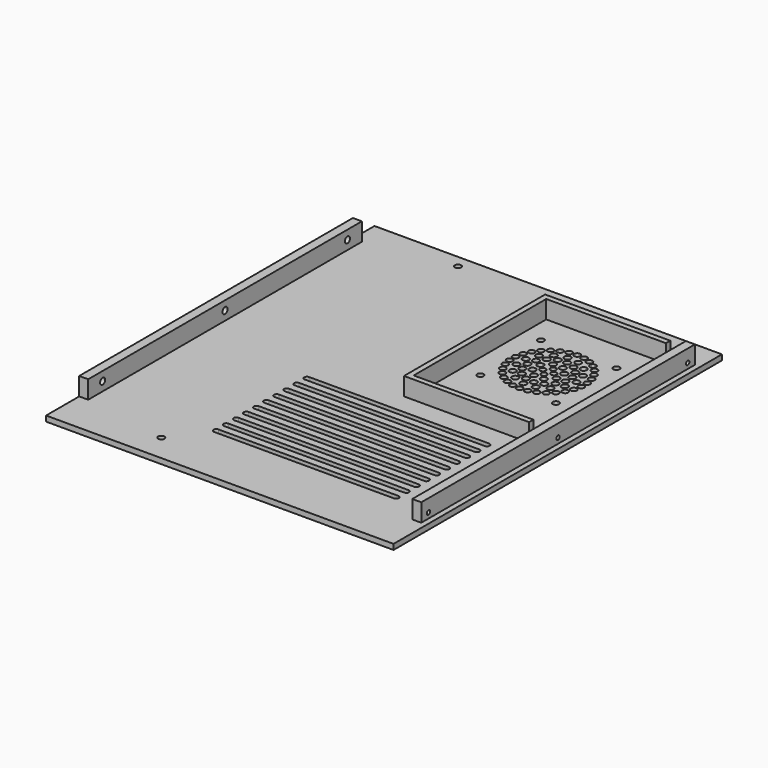
from build123d import *

# Parameters (mm, degrees)
SKETCH_W        = 193
SKETCH_H        = 228
SKETCH_R        = 1.75
PAD_DEPTH       = 3
SKETCH001_W     = 5
SKETCH001_H     = 190
PAD001_DEPTH    = 10
SKETCH002_R     = 1.75
POCKET_DEPTH    = 5
SKETCH003_R     = 1.15
POCKET001_DEPTH = 5
SKETCH005_R     = 1.8
SKETCH005_R_2   = 1.7
SKETCH005_R_3   = 1.75
SKETCH005_R_4   = 1.6
POCKET002_DEPTH = 5


with BuildPart() as part:
    # Sketch → Pad (new body)
    with BuildSketch(Plane.XY):
        with Locations((-20, -4)):
            Rectangle(SKETCH_W, SKETCH_H)
        with Locations((-64.5, 103)):
            Circle(SKETCH_R, mode=Mode.SUBTRACT)
        with Locations((-64.5, -103)):
            Circle(SKETCH_R, mode=Mode.SUBTRACT)
        with BuildLine():
            ThreePointArc((-50, -18.5), (-51.5, -20), (-50, -21.5))
            Line((-50, -21.5), (50, -21.5))
            ThreePointArc((50, -21.5), (51.5, -20), (50, -18.5))
            Line((-50, -18.5), (50, -18.5))
        make_face(mode=Mode.SUBTRACT)
        with BuildLine():
            ThreePointArc((-50, -25.5), (-51.5, -27), (-50, -28.5))
            Line((-50, -28.5), (50, -28.5))
            ThreePointArc((50, -28.5), (51.5, -27), (50, -25.5))
            Line((-50, -25.5), (50, -25.5))
        make_face(mode=Mode.SUBTRACT)
        with BuildLine():
            ThreePointArc((-50, -32.5), (-51.5, -34), (-50, -35.5))
            Line((-50, -35.5), (50, -35.5))
            ThreePointArc((50, -35.5), (51.5, -34), (50, -32.5))
            Line((-50, -32.5), (50, -32.5))
        make_face(mode=Mode.SUBTRACT)
        with BuildLine():
            ThreePointArc((-50, -39.5), (-51.5, -41), (-50, -42.5))
            Line((-50, -42.5), (50, -42.5))
            ThreePointArc((50, -42.5), (51.5, -41), (50, -39.5))
            Line((-50, -39.5), (50, -39.5))
        make_face(mode=Mode.SUBTRACT)
        with BuildLine():
            ThreePointArc((-50, -46.5), (-51.5, -48), (-50, -49.5))
            Line((-50, -49.5), (50, -49.5))
            ThreePointArc((50, -49.5), (51.5, -48), (50, -46.5))
            Line((-50, -46.5), (50, -46.5))
        make_face(mode=Mode.SUBTRACT)
        with BuildLine():
            ThreePointArc((-50, -53.5), (-51.5, -55), (-50, -56.5))
            Line((-50, -56.5), (50, -56.5))
            ThreePointArc((50, -56.5), (51.5, -55), (50, -53.5))
            Line((-50, -53.5), (50, -53.5))
        make_face(mode=Mode.SUBTRACT)
        with BuildLine():
            ThreePointArc((-50, -60.5), (-51.5, -62), (-50, -63.5))
            Line((-50, -63.5), (50, -63.5))
            ThreePointArc((50, -63.5), (51.5, -62), (50, -60.5))
            Line((-50, -60.5), (50, -60.5))
        make_face(mode=Mode.SUBTRACT)
        with BuildLine():
            ThreePointArc((-50, -67.5), (-51.5, -69), (-50, -70.5))
            Line((-50, -70.5), (50, -70.5))
            ThreePointArc((50, -70.5), (51.5, -69), (50, -67.5))
            Line((-50, -67.5), (50, -67.5))
        make_face(mode=Mode.SUBTRACT)
        with BuildLine():
            ThreePointArc((-50, -74.5), (-51.5, -76), (-50, -77.5))
            Line((-50, -77.5), (50, -77.5))
            ThreePointArc((50, -77.5), (51.5, -76), (50, -74.5))
            Line((-50, -74.5), (50, -74.5))
        make_face(mode=Mode.SUBTRACT)
        with BuildLine():
            ThreePointArc((-50, -81.5), (-51.5, -83), (-50, -84.5))
            Line((-50, -84.5), (50, -84.5))
            ThreePointArc((50, -84.5), (51.5, -83), (50, -81.5))
            Line((-50, -81.5), (50, -81.5))
        make_face(mode=Mode.SUBTRACT)
    extrude(amount=PAD_DEPTH)

    # Sketch001 → Pad001 (join)
    with BuildSketch(Plane.XY.offset(3)):
        with Locations((-114, 0)):
            Rectangle(SKETCH001_W, SKETCH001_H)
        with Locations((71, 0)):
            Rectangle(SKETCH001_W, SKETCH001_H)
        Polygon((63, 91), (-6.5, 91), (-6.5, -7), (63, -7), (63, -4), (-3.5, -4), (-3.5, 88), (63, 88), align=None)
    extrude(amount=PAD001_DEPTH)

    # Sketch002 → Pocket (cut)
    with BuildSketch(Plane.YZ.offset(-116.5)):
        with Locations((-85, 8)):
            Circle(SKETCH002_R)
        with Locations((0, 8)):
            Circle(SKETCH002_R)
        with Locations((85, 8)):
            Circle(SKETCH002_R)
    extrude(amount=POCKET_DEPTH, mode=Mode.SUBTRACT)

    # Sketch003 → Pocket001 (cut)
    with BuildSketch(Plane.YZ.offset(73.5)):
        with Locations((-90, 6)):
            Circle(SKETCH003_R)
        with Locations((0, 6)):
            Circle(SKETCH003_R)
        with Locations((90, 6)):
            Circle(SKETCH003_R)
    extrude(amount=-POCKET001_DEPTH, mode=Mode.SUBTRACT)

    # Sketch005 → Pocket002 (cut)
    with BuildSketch(Plane(origin=(40, 60, 0), x_dir=(1, 0, 0), z_dir=(0, 0, 1))):
        with Locations((-13.721043, 5.674388)):
            Circle(SKETCH005_R)
        with Locations((-16.264029, 9.856091)):
            Circle(SKETCH005_R_2)
        with Locations((-15.773102, 1.367326)):
            Circle(SKETCH005_R)
        with Locations((-20.239142, 8.564048)):
            Circle(SKETCH005_R_2)
        with Locations((-19.837396, 3.687065)):
            Circle(SKETCH005_R)
        with Locations((-23.860114, 6.473479)):
            Circle(SKETCH005_R_2)
        with Locations((-14.849041, -3.103349)):
            Circle(SKETCH005_R)
        with Locations((-19.949988, -1.072984)):
            Circle(SKETCH005_R)
        with Locations((-26.967306, 3.675751)):
            Circle(SKETCH005_R_2)
        with Locations((-24.616644, -0.61619)):
            Circle(SKETCH005_R)
        with Locations((-29.424917, 0.293139)):
            Circle(SKETCH005_R_2)
        with Locations((-18.714545, -6.978221)):
            Circle(SKETCH005_R)
        with Locations((-22.777848, -4.997866)):
            Circle(SKETCH005_R)
        with Locations((-31.125539, -3.526521)):
            Circle(SKETCH005_R_2)
        with Locations((-27.232413, -6.491304)):
            Circle(SKETCH005_R)
        with Locations((-31.994847, -7.616292)):
            Circle(SKETCH005_R_2)
        with Locations((-23.77044, -9.732446)):
            Circle(SKETCH005_R)
        with Locations((-31.994847, -11.79743)):
            Circle(SKETCH005_R_2)
        with Locations((-27.232413, -12.922418)):
            Circle(SKETCH005_R)
        with Locations((-31.125539, -15.887201)):
            Circle(SKETCH005_R_2)
        with Locations((-18.707921, -12.451493)):
            Circle(SKETCH005_R)
        with Locations((-22.75709, -14.462627)):
            Circle(SKETCH005_R)
        with Locations((-29.424917, -19.706861)):
            Circle(SKETCH005_R_2)
        with Locations((-24.616644, -18.797532)):
            Circle(SKETCH005_R)
        with Locations((-26.967306, -23.089473)):
            Circle(SKETCH005_R_2)
        with Locations((-19.912042, -18.375067)):
            Circle(SKETCH005_R)
        with Locations((-23.860114, -25.887201)):
            Circle(SKETCH005_R_2)
        with Locations((-19.837396, -23.100787)):
            Circle(SKETCH005_R)
        with Locations((-20.239142, -27.97777)):
            Circle(SKETCH005_R_2)
        with Locations((-9.359777, -16.310373)):
            Circle(SKETCH005_R)
        with Locations((-15.724492, -20.797034)):
            Circle(SKETCH005_R)
        with Locations((-16.262643, -29.269813)):
            Circle(SKETCH005_R_2)
        with Locations((-13.721043, -25.08811)):
            Circle(SKETCH005_R)
        with Locations((-12.104409, -29.706861)):
            Circle(SKETCH005_R_2)
        with Locations((-12.105765, 10.293139)):
            Circle(SKETCH005_R_2)
        with Locations((-33.104409, 11.293139)):
            Circle(SKETCH005_R_3)
        with Locations((-33.104409, -30.706861)):
            Circle(SKETCH005_R_3)
        with Locations((-15.178447, -9.706861)):
            Circle(SKETCH005_R_4)
        with Locations((-7.944789, 9.856091)):
            Circle(SKETCH005_R_2)
        with Locations((5.216099, 0.293139)):
            Circle(SKETCH005_R_2)
        with Locations((2.758488, 3.675751)):
            Circle(SKETCH005_R_2)
        with Locations((-0.348704, 6.473479)):
            Circle(SKETCH005_R_2)
        with Locations((-3.969676, 8.564048)):
            Circle(SKETCH005_R_2)
        with Locations((6.916721, -3.526521)):
            Circle(SKETCH005_R_2)
        with Locations((7.786029, -7.616292)):
            Circle(SKETCH005_R_2)
        with Locations((7.786029, -11.79743)):
            Circle(SKETCH005_R_2)
        with Locations((6.916721, -15.887201)):
            Circle(SKETCH005_R_2)
        with Locations((5.216099, -19.706861)):
            Circle(SKETCH005_R_2)
        with Locations((2.758488, -23.089473)):
            Circle(SKETCH005_R_2)
        with Locations((-0.348704, -25.887201)):
            Circle(SKETCH005_R_2)
        with Locations((-3.969676, -27.97777)):
            Circle(SKETCH005_R_2)
        with Locations((-7.946175, -29.269813)):
            Circle(SKETCH005_R_2)
        with Locations((-7.32516, 5.002154)):
            Circle(SKETCH005_R_2)
        with Locations((-1.755653, 1.786597)):
            Circle(SKETCH005_R)
        with Locations((2.02446, -3.416283)):
            Circle(SKETCH005_R)
        with Locations((2.02446, -15.997439)):
            Circle(SKETCH005_R)
        with Locations((-1.755653, -21.200319)):
            Circle(SKETCH005_R)
        with Locations((-7.32516, -24.415876)):
            Circle(SKETCH005_R)
        with Locations((-6.174191, 0.339504)):
            Circle(SKETCH005_R)
        with Locations((-2.608677, -2.92984)):
            Circle(SKETCH005_R)
        with Locations((-0.675929, -7.364473)):
            Circle(SKETCH005_R)
        with Locations((-0.708276, -12.201874)):
            Circle(SKETCH005_R)
        with Locations((-2.700157, -16.610264)):
            Circle(SKETCH005_R)
        with Locations((-6.309072, -19.831633)):
            Circle(SKETCH005_R)
        with Locations((-9.375769, -3.096725)):
            Circle(SKETCH005_R)
        with Locations((-5.500897, -6.962229)):
            Circle(SKETCH005_R)
        with Locations((-12.10507, -12.780899)):
            Circle(SKETCH005_R_4)
        with Locations((-5.494273, -12.435501)):
            Circle(SKETCH005_R)
        with Locations((-10.91448, -21.312075)):
            Circle(SKETCH005_R)
        with Locations((8.895591, 11.293139)):
            Circle(SKETCH005_R_3)
        with Locations((8.895591, -30.706861)):
            Circle(SKETCH005_R_3)
        with Locations((-14.833049, -16.316997)):
            Circle(SKETCH005_R)
        with Locations((-10.965395, 1.903461)):
            Circle(SKETCH005_R)
        with Locations((-11.931226, -6.594054)):
            Circle(SKETCH005_R_4)
        with Locations((-9.088884, -9.676053)):
            Circle(SKETCH005_R_4)
        with Locations((3.560039, -9.764024)):
            Circle(SKETCH005_R)
    extrude(amount=POCKET002_DEPTH, mode=Mode.SUBTRACT)


solid = part.part
